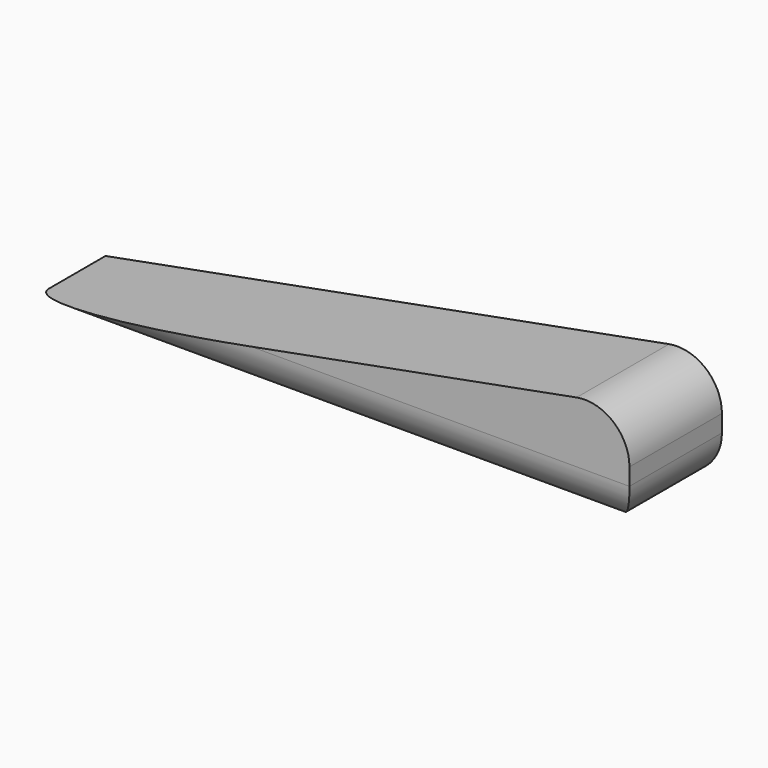
from build123d import *

# Parameters (mm, degrees)
F1_DEPTH = 38.1
F2_R     = 14.717046


with BuildPart() as f1:
    # F0 (on Front) → F1 (new body)
    with BuildSketch(Plane.XZ):
        Polygon((-101.000234, 0), (0, 0), (102.199766, 0), (102.199766, 38.1), align=None)
    extrude(amount=F1_DEPTH)

    # F2
    f2_edges = [f1.edges().sort_by_distance(p)[0] for p in [
        (102.199766, -19.05, 38.1),
        (102.199766, -19.05, 0),
        (0.599766, -38.1, 0),
    ]]
    fillet(f2_edges, radius=F2_R)


solid = f1.part
